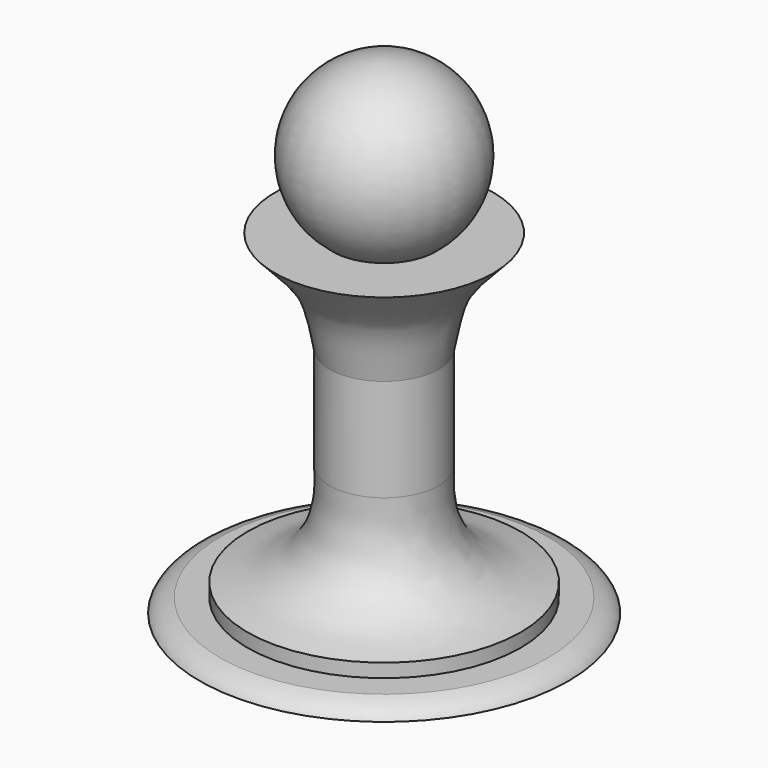
from build123d import *


with BuildPart() as f1:
    # F0 (on Front) → F1 (revolve)
    with BuildSketch(Plane.XZ):
        with BuildLine():
            Line((16, 6.641762), (7.5, 6.641762))
            ThreePointArc((7.5, 6.641762), (11.858541, 20.594609), (0, 29.141762))
            Line((0, 29.141762), (0, 16.641762))
            Line((0, 16.641762), (0, 6.641762))
            Line((0, 6.641762), (0, -8.358238))
            Line((0, -8.358238), (0, -23.358238))
            Line((0, -23.358238), (0, -38.358238))
            Line((0, -38.358238), (0, -40.358238))
            Line((0, -40.358238), (0, -42.358238))
            Line((0, -42.358238), (27, -42.358238))
            add(Edge.make_bspline(
                [(24, -40.358238), (25.783967, -40.846817), (26.677305, -41.640896), (27, -42.358238)],
                knots=[0, 0, 0, 0, 3.605551, 3.605551, 3.605551, 3.605551], degree=3))
            Line((24, -40.358238), (20, -40.358238))
            Line((20, -40.358238), (20, -38.358238))
            add(Edge.make_bspline(
                [(8, -23.358238), (7.57825, -31.265218), (10, -36.622424), (20, -38.358238)],
                knots=[0, 0, 0, 0, 19.209373, 19.209373, 19.209373, 19.209373], degree=3))
            Line((8, -23.358238), (8, -8.358238))
            add(Edge.make_bspline(
                [(16, 6.641762), (9.63382, 0), (9.63382, 0), (8, -8.358238)],
                knots=[0, 0, 0, 0, 17, 17, 17, 17], degree=3))
        make_face()
    revolve(axis=Axis((0, 0, 22.891762), (0, 0, -1)))


solid = f1.part
